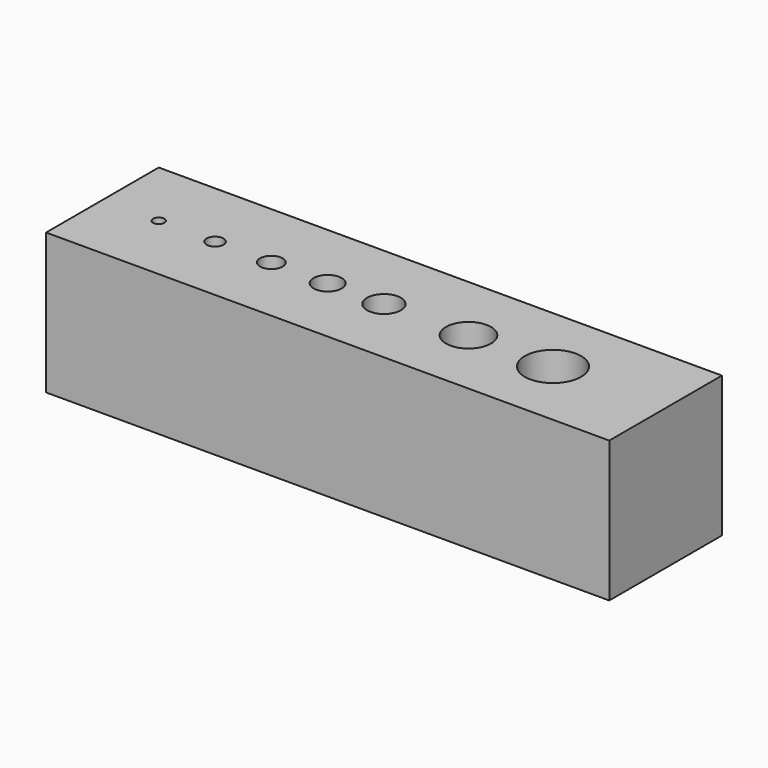
from build123d import *

# Parameters (mm, degrees)
F0_W     = 200
F0_H     = 50
F1_DEPTH = 25
F3_D     = 4
F4_D     = 6
F5_D     = 8
F6_D     = 10
F7_D     = 12
F8_D     = 16
F9_D     = 20


with BuildPart() as f1:
    # F0 (on Top) → F1 (new body, symmetric)
    with BuildSketch(Plane.XY):
        Rectangle(F0_W, F0_H)
    extrude(amount=F1_DEPTH, both=True)

    # F3 (through all)
    with Locations(Plane.XY.offset(25)):
        with Locations((-80, 0)):
            Hole(F3_D / 2)

    # F4 (through all)
    with Locations(Plane.XY.offset(25)):
        with Locations((-60, 0)):
            Hole(F4_D / 2)

    # F5 (through all)
    with Locations(Plane.XY.offset(25)):
        with Locations((-40, 0)):
            Hole(F5_D / 2)

    # F6 (through all)
    with Locations(Plane.XY.offset(25)):
        with Locations((-20, 0)):
            Hole(F6_D / 2)

    # F7 (through all)
    with Locations(Plane.XY.offset(25)):
        with Locations((0, 0)):
            Hole(F7_D / 2)

    # F8 (through all)
    with Locations(Plane.XY.offset(25)):
        with Locations((30, 0)):
            Hole(F8_D / 2)

    # F9 (through all)
    with Locations(Plane.XY.offset(25)):
        with Locations((60, 0)):
            Hole(F9_D / 2)


solid = f1.part
